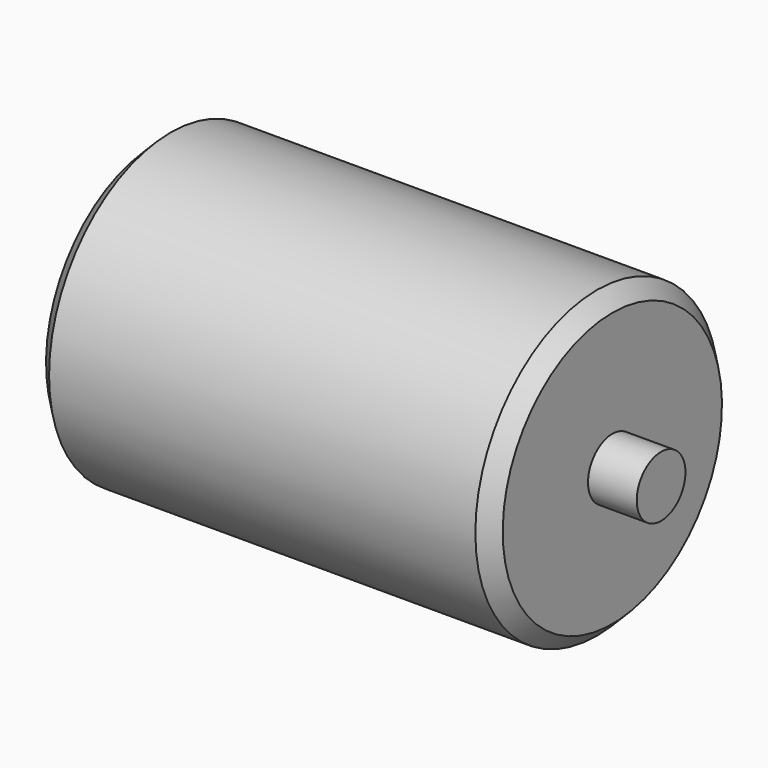
from build123d import *

# Parameters (mm, degrees)
F0_W     = 150
F0_H     = 50
F2_R     = 10
F3_DEPTH = 15
F4_R     = 10
F5_DEPTH = 16
F6_SIZE2 = 5
F6_SIZE  = 5
F7_SIZE2 = 5
F7_SIZE  = 5


with BuildPart() as f1:
    # F0 (on Front) → F1 (revolve)
    with BuildSketch(Plane.XZ):
        with Locations((75, 25)):
            Rectangle(F0_W, F0_H)
    revolve(axis=Axis((75, 0, 0), (1, 0, 0)))

    # F2 (on face) → F3 (join)
    with BuildSketch(Plane(origin=(0, 0, 0), x_dir=(0, -1, 0), z_dir=(-1, 0, 0))):
        Circle(F2_R)
    extrude(amount=F3_DEPTH)

    # F4 (on face) → F5 (join)
    with BuildSketch(Plane.YZ.offset(150)):
        Circle(F4_R)
    extrude(amount=F5_DEPTH)

    # F6
    f6_edges = [f1.edges().sort_by_distance(p)[0] for p in [
        (150, 0, -50),
    ]]
    chamfer(f6_edges, length=F6_SIZE, length2=F6_SIZE2)

    # F7
    f7_edges = [f1.edges().sort_by_distance(p)[0] for p in [
        (0, 0, -50),
    ]]
    chamfer(f7_edges, length=F7_SIZE, length2=F7_SIZE2)


solid = f1.part
